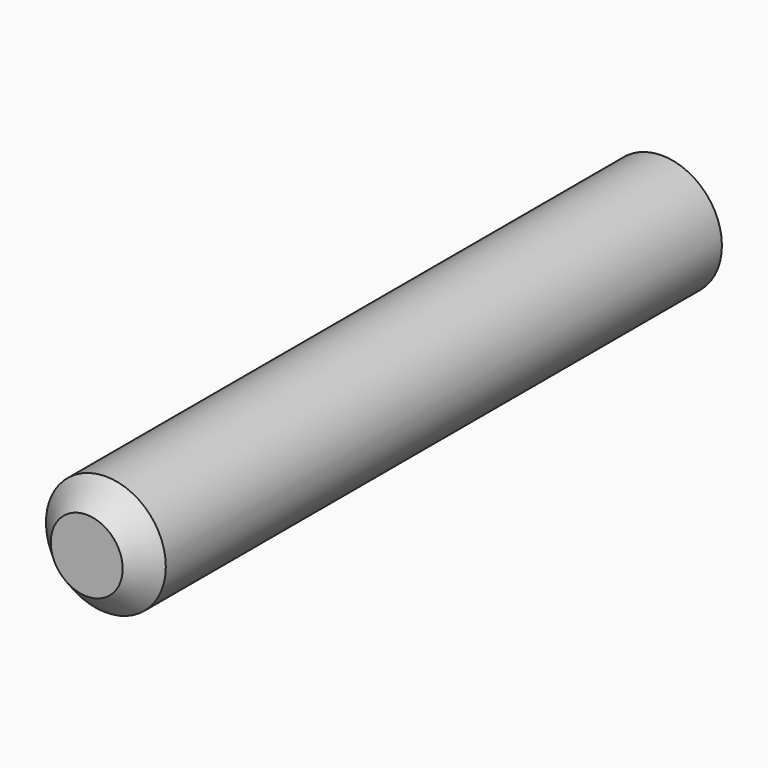
from build123d import *

# Parameters (mm, degrees)
F0_R     = 3.175
F1_DEPTH = 38.1
F2_SIZE  = 1.27


with BuildPart() as f1:
    # F0 (on Front) → F1 (new body)
    with BuildSketch(Plane.XZ):
        Circle(F0_R)
    extrude(amount=F1_DEPTH)

    # F2
    f2_edges = [f1.edges().sort_by_distance(p)[0] for p in [
        (-3.175, -38.1, 0),
    ]]
    chamfer(f2_edges, length=F2_SIZE)


solid = f1.part
